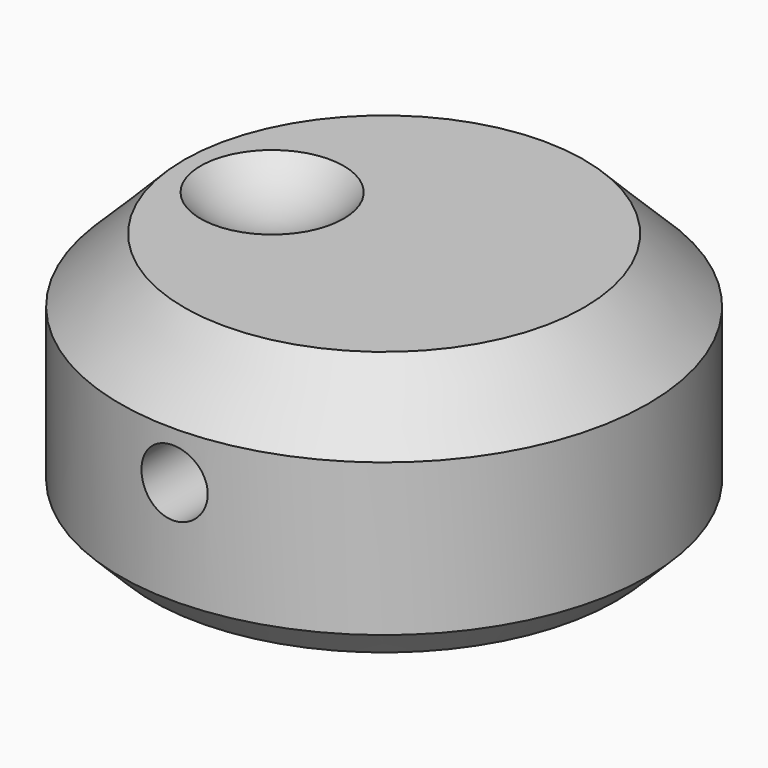
from build123d import *

# Parameters (mm, degrees)
SKETCH002_R     = 2.07
PAD001_DEPTH    = 20
SKETCH_R        = 16.5
PAD_DEPTH       = 15.5
CHAMFER_SIZE    = 4
CHAMFER001_SIZE = 2


with BuildPart() as obj1:
    # Sphere → Sphere (revolve)
    with BuildSketch(Plane(origin=(-7, 0, 19.5), x_dir=(1, 0, 0), z_dir=(0, -1, 0))):
        with BuildLine():
            ThreePointArc((0, -6), (6, 0), (0, 6))
            Line((0, 6), (0, -6))
        make_face()
    revolve(axis=Axis((-7, 0, 19.5), (0, 0, 1)))


with BuildPart() as pad001:
    # Sketch002 → Pad001 (new body)
    with BuildSketch(Plane.XZ):
        with Locations((0, 8.5)):
            Circle(SKETCH002_R)
    extrude(amount=PAD001_DEPTH)


with BuildPart() as revolution:
    # Sketch001 → Revolution (revolve)
    with BuildSketch(Plane.YZ):
        Polygon((3.5, 0), (3.5, 6), (3, 6), (3, 11), (0, 12.732051), (0, 0), align=None)
    revolve(axis=Axis((0, 0, 0), (0, 0, 1)))


with BuildPart() as cut002:
    # Sketch → Pad (new body)
    with BuildSketch(Plane.XY):
        Circle(SKETCH_R)
    extrude(amount=PAD_DEPTH)

    # Chamfer
    chamfer_edges = [cut002.edges().sort_by_distance(p)[0] for p in [
        (-16.5, 0, 15.5),
    ]]
    chamfer(chamfer_edges, length=CHAMFER_SIZE)

    # Chamfer001
    chamfer001_edges = [cut002.edges().sort_by_distance(p)[0] for p in [
        (-16.5, 0, 0),
    ]]
    chamfer(chamfer001_edges, length=CHAMFER001_SIZE)

    # Cut: cut Revolution
    add(revolution.part, mode=Mode.SUBTRACT)

    # Cut001: cut Pad001
    add(pad001.part, mode=Mode.SUBTRACT)

    # Cut002: cut obj1
    add(obj1.part, mode=Mode.SUBTRACT)


solid = cut002.part
